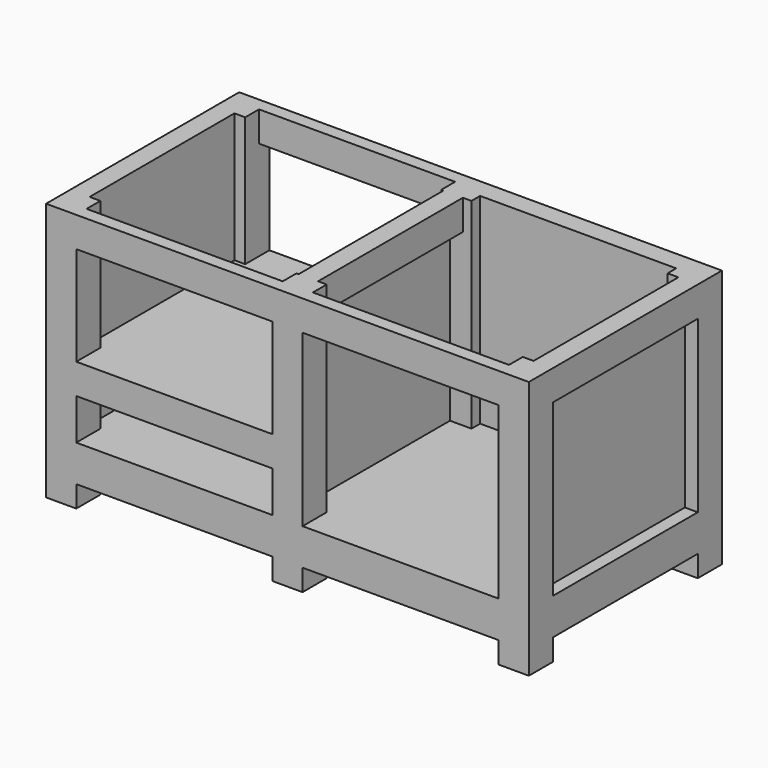
from build123d import *

# Parameters (mm, degrees)
F0_W          = 1422.4
F0_H          = 711.2
F0_W_2        = 654.05
F0_H_2        = 635
F1_DEPTH      = 88.9
F2_W          = 88.9
F2_H          = 88.9
F3_DEPTH      = 762
F5_W          = 1422.4
F5_H          = 711.2
F5_W_2        = 654.05
F5_H_2        = 635
F6_DEPTH      = 88.9
F7_W          = 1422.4
F7_H          = 711.2
F8_DEPTH      = 18.796
F8_DEPTH_BACK = 0.254
F9_W          = 19.05
F9_H          = 533.4
F9_W_2        = 577.85
F9_H_2        = 19.05
F10_DEPTH     = 590.804
F12_W         = 152.4
F12_H         = 635
F13_DEPTH     = 88.9
F14_W         = 654.05
F14_H         = 635
F15_DEPTH     = 19.05


with BuildPart() as f1:
    # F0 (on Top) → F1 (new body)
    with BuildSketch(Plane.XY):
        with Locations((0, -355.6)):
            Rectangle(F0_W, F0_H)
        with Locations((-346.075, -355.6)):
            Rectangle(F0_W_2, F0_H_2, mode=Mode.SUBTRACT)
        with Locations((346.075, -355.6)):
            Rectangle(F0_W_2, F0_H_2, mode=Mode.SUBTRACT)
    extrude(amount=-F1_DEPTH)

    # F2 (on Top) → F3 (join)
    with BuildSketch(Plane.XY):
        with Locations((-666.75, -44.45)):
            Rectangle(F2_W, F2_H)
        with Locations((-666.75, -666.75)):
            Rectangle(F2_W, F2_H)
        with Locations((0, -44.45)):
            Rectangle(F2_W, F2_H)
        with Locations((0, -666.75)):
            Rectangle(F2_W, F2_H)
        with Locations((666.75, -44.45)):
            Rectangle(F2_W, F2_H)
        with Locations((666.75, -666.75)):
            Rectangle(F2_W, F2_H)
    extrude(amount=-F3_DEPTH)

    # F5 (on offset) → F6 (join)
    with BuildSketch(Plane.XY.offset(-609.6)):
        with Locations((0, -355.6)):
            Rectangle(F5_W, F5_H)
        with Locations((-346.075, -355.6)):
            Rectangle(F5_W_2, F5_H_2, mode=Mode.SUBTRACT)
        with Locations((346.075, -355.6)):
            Rectangle(F5_W_2, F5_H_2, mode=Mode.SUBTRACT)
    extrude(amount=-F6_DEPTH)

    # F7 (on offset) → F8 (join, two sides)
    with BuildSketch(Plane.XY.offset(-609.6)) as f8_sk:
        with Locations((0, -355.6)):
            Rectangle(F7_W, F7_H)
    extrude(amount=F8_DEPTH)
    extrude(f8_sk.sketch, amount=-F8_DEPTH_BACK)

    # F9 (on Top) → F10 (join, through all)
    with BuildSketch(Plane.XY):
        with Locations((663.575, -355.6)):
            Rectangle(F9_W, F9_H)
        with Locations((333.375, -47.625)):
            Rectangle(F9_W_2, F9_H_2)
        with Locations((-28.575, -355.6)):
            Rectangle(F9_W, F9_H)
        with Locations((-663.575, -355.6)):
            Rectangle(F9_W, F9_H)
    extrude(amount=-F10_DEPTH)

    # F12 (on offset) → F13 (join)
    with BuildSketch(Plane.XY.offset(-381)):
        Polygon((0, 0), (-711.2, 0), (-711.2, -38.1), (-542.925, -38.1), (-542.925, -673.1), (-711.2, -673.1), (-711.2, -711.2), (0, -711.2), (0, -673.1), (-123.825, -673.1), (-123.825, -38.1), (0, -38.1), align=None)
        with Locations((-428.625, -355.6)):
            Rectangle(F12_W, F12_H, mode=Mode.SUBTRACT)
        with Locations((-238.125, -355.6)):
            Rectangle(F12_W, F12_H, mode=Mode.SUBTRACT)
    extrude(amount=-F13_DEPTH)

    # F14 (on face) → F15 (join)
    with BuildSketch(Plane.XY.offset(-381)):
        with Locations((-346.075, -355.6)):
            Rectangle(F14_W, F14_H)
    extrude(amount=-F15_DEPTH)


solid = f1.part
